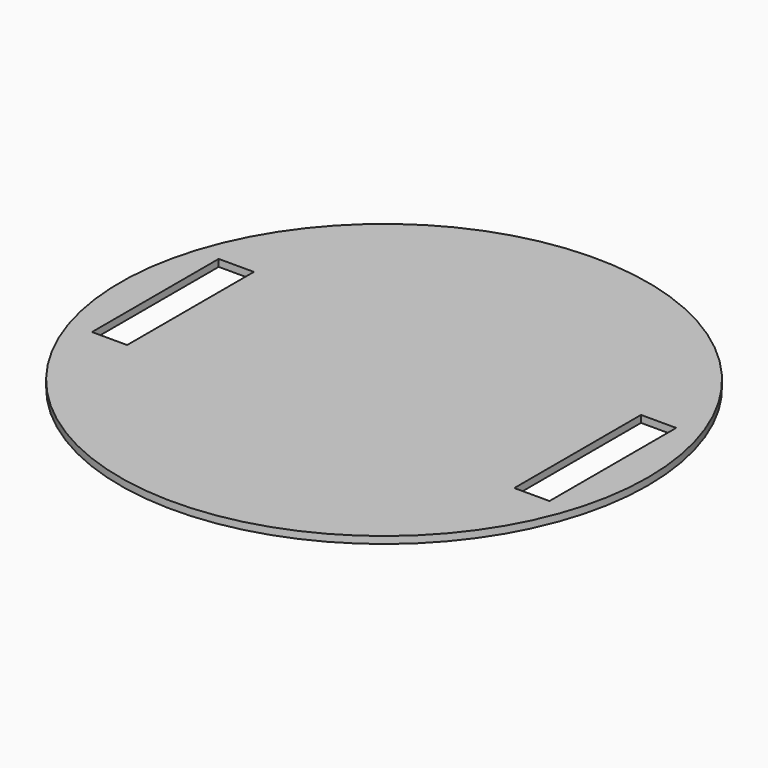
from build123d import *

# Parameters (mm, degrees)
F0_R     = 75
F1_DEPTH = 2
F3_W     = 10
F3_H     = 22.5
F3_H_2   = 45
F4_DEPTH = 25


with BuildPart() as f1:
    # F0 (on Top) → F1 (new body)
    with BuildSketch(Plane.XY):
        Circle(F0_R)
    extrude(amount=F1_DEPTH)

    # F3 (on face) → F4 (cut)
    with BuildSketch(Plane.XY.offset(2)):
        with Locations((-60, -11.25)):
            Rectangle(F3_W, F3_H)
        with Locations((-60, 11.25)):
            Rectangle(F3_W, F3_H)
        with Locations((60, 0)):
            Rectangle(F3_W, F3_H_2)
    extrude(amount=-F4_DEPTH, mode=Mode.SUBTRACT)


solid = f1.part
